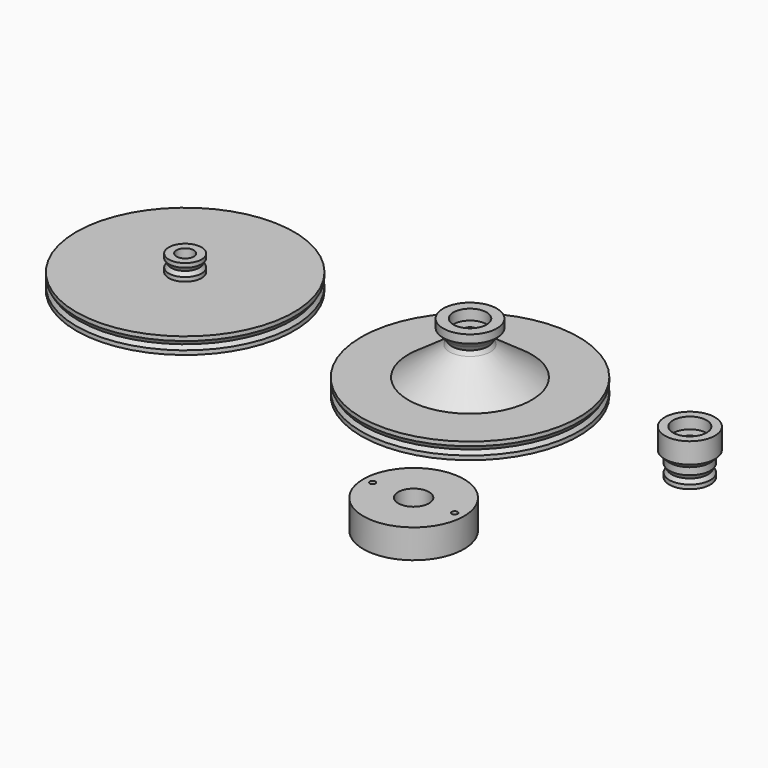
from build123d import *

# Parameters (mm, degrees)
F5_W     = 17
F5_H     = 14.1
F7_R     = 1.4
F8_DEPTH = 25


with BuildPart() as f1:
    # F0 (on Front) → F1 (revolve)
    with BuildSketch(Plane.XZ):
        Polygon((25.756358, 16.21321), (25.756358, 13.020272), (26.756358, 14.020272), (26.756358, 16.21321), align=None)
        Polygon((19.956358, 0), (25.756358, 0), (25.756358, 13.020272), (25.756358, 16.21321), (21.756358, 16.21321), (21.756358, 21.71321), (17.756358, 21.71321), (17.756358, 11.677034), (19.984262, 9.412393), (19.956358, 6), (21.111059, 4), (19.956358, 2), align=None)
    revolve(axis=Axis((29.956358, 0, 6.343111), (0, 0, 1)))


with BuildPart() as f2:
    # F0 (on Front) → F2 (revolve)
    with BuildSketch(Plane.XZ):
        Polygon((-130.123314, 2), (-130.123314, 0), (-85.323314, 0), (-85.323314, 5.1), (-79.823314, 5.1), (-79.823314, 28.1), (-85.223314, 28.1), (-87.123314, 28.1), (-87.123314, 26.1), (-85.968614, 24.1), (-87.123314, 22.1), (-87.123314, 8), (-107.160129, 8), (-130.123314, 8), (-130.123314, 6), (-128.968614, 4), align=None)
        Polygon((-87.123314, 28.1), (-85.223314, 28.1), (-85.223314, 33.2), (-90.223314, 33.2), (-90.223314, 29.2), (-87.123314, 26.1), align=None)
        Polygon((-87.123314, 22.1), (-107.160129, 8), (-87.123314, 8), align=None)
    revolve(axis=Axis((-77.123314, 0, 8.085711), (0, 0, 1)))


with BuildPart() as f3:
    # F0 (on Front) → F3 (revolve)
    with BuildSketch(Plane.XZ):
        Polygon((-268.856686, 2), (-268.856686, 0), (-234.056686, 0), (-224.056686, 0), (-220.056686, 0), (-220.056686, 16), (-223.856686, 16), (-223.856686, 14), (-222.701986, 12), (-223.856686, 10), (-223.856686, 8), (-268.856686, 8), (-268.856686, 6), (-267.701986, 4), align=None)
    revolve(axis=Axis((-215.856686, 0, 11.447526), (0, 0, 1)))


with BuildPart() as f6:
    # F5 (on offset) → F6 (revolve)
    with BuildSketch(Plane.XZ.offset(100)):
        with Locations((-40.5813, 7.05)):
            Rectangle(F5_W, F5_H)
    revolve(axis=Axis((-24.5813, -100, 7.684422), (0, 0, 1)))

    # F7 (on face) → F8 (cut)
    with BuildSketch(Plane.XY.offset(14.1)):
        with Locations((-44.5813, -100)):
            Circle(F7_R)
        with Locations((-4.5813, -100)):
            Circle(F7_R)
    extrude(amount=-F8_DEPTH, mode=Mode.SUBTRACT)


solid = Compound([f1.part, f2.part, f3.part, f6.part])
